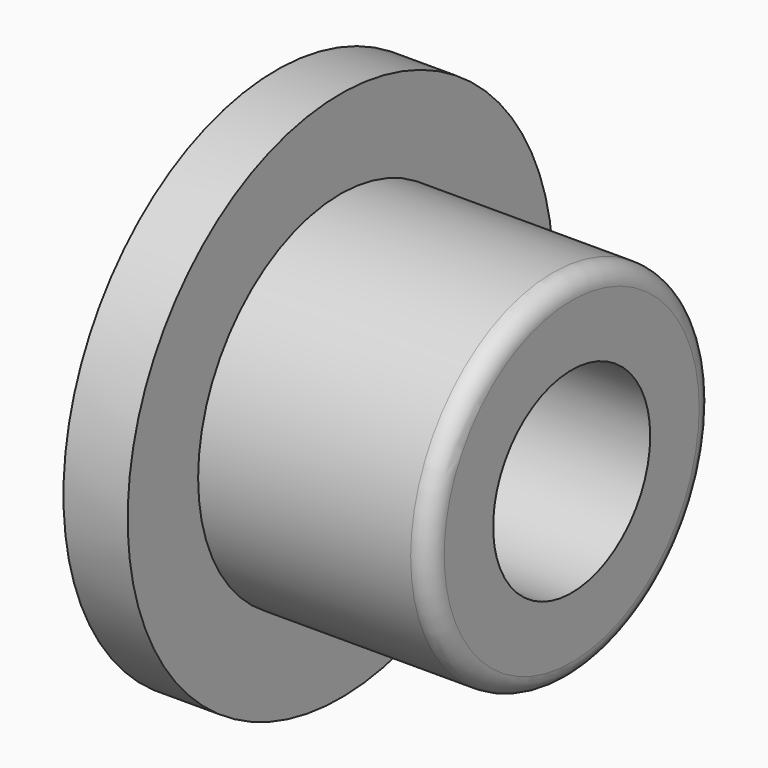
from build123d import *

# Parameters (mm, degrees)
F0_R     = 14.5
F1_DEPTH = 3.5
F2_R     = 9.7
F3_DEPTH = 16.1
F4_R     = 5.35
F5_DEPTH = 25.4
F6_R     = 1.016


with BuildPart() as f1:
    # F0 (on Right) → F1 (new body)
    with BuildSketch(Plane.YZ):
        Circle(F0_R)
    extrude(amount=F1_DEPTH)

    # F2 (on Right) → F3 (join)
    with BuildSketch(Plane.YZ):
        Circle(F2_R)
    extrude(amount=F3_DEPTH)

    # F4 (on Right) → F5 (cut)
    with BuildSketch(Plane.YZ):
        Circle(F4_R)
    extrude(amount=F5_DEPTH, mode=Mode.SUBTRACT)

    # F6
    f6_edges = [f1.edges().sort_by_distance(p)[0] for p in [
        (16.1, -9.7, 0),
    ]]
    fillet(f6_edges, radius=F6_R)


solid = f1.part
